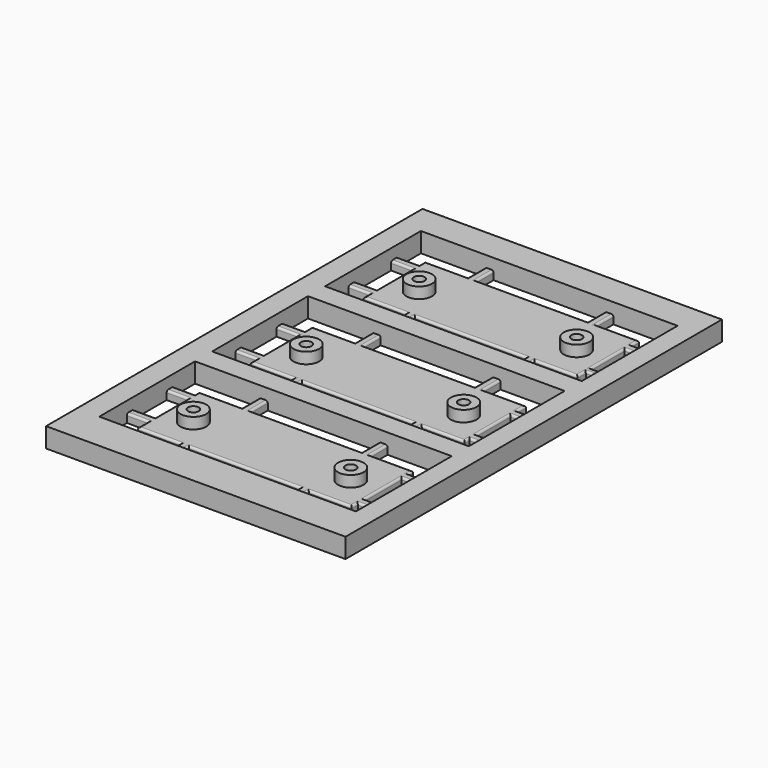
from build123d import *

# Parameters (mm, degrees)
F0_R     = 3
F0_W     = 2
F0_H     = 5
F0_W_2   = 5
F0_H_2   = 2
F0_H_3   = 2.0107477903
F0_H_4   = 1.5826318413
F1_DEPTH = 2
F0_H_5   = 1.9926615059
F2_W     = 70
F2_H     = 110
F2_W_2   = 60
F2_H_2   = 28
F3_DEPTH = 4.6
F0_R_2   = 1.25
F4_DEPTH = 4.6
F5_R     = 0.5
F6_R     = 0.5
F7_R     = 0.5


with BuildPart() as f1:
    # F0 (on Top) → F1 (new body)
    with BuildSketch(Plane.XY):
        Polygon((-4.260212779, 31.3345443402), (-14.260212779, 31.3345443402), (-14.260212779, 29.606844902), (-14.260212779, 27.606844902), (-14.260212779, 22.3345443402), (-14.260212779, 20.3345443402), (-14.260212779, 17.1737267151), (-14.260212779, 15.1737267151), (-14.260212779, 13.3345443402), (-4.260212779, 13.3345443402), (-2.260212779, 13.3345443402), (8.7358048186, 13.3345443402), (10.7358048186, 13.3345443402), (23.739787221, 13.3345443402), (25.739787221, 13.3345443402), (35.739787221, 13.3345443402), (35.739787221, 15.7596264035), (35.739787221, 17.3422582448), (35.739787221, 20.3345443402), (35.739787221, 22.3345443402), (35.739787221, 27.1184686571), (35.739787221, 29.1292164475), (35.739787221, 31.3345443402), (25.739787221, 31.3345443402), (23.739787221, 31.3345443402), (10.739787221, 31.3345443402), (8.739787221, 31.3345443402), (-2.260212779, 31.3345443402), align=None)
        with Locations((-7.660212779, 21.3345443402)):
            Circle(F0_R, mode=Mode.SUBTRACT)
        with Locations((29.139787221, 21.3345443402)):
            Circle(F0_R, mode=Mode.SUBTRACT)
        with Locations((-3.260212779, 33.8345443402)):
            Rectangle(F0_W, F0_H)
        with Locations((-16.760212779, 28.606844902)):
            Rectangle(F0_W_2, F0_H_2)
        with Locations((24.739787221, 33.8345443402)):
            Rectangle(F0_W, F0_H)
        with Locations((-16.760212779, 16.1737267151)):
            Rectangle(F0_W_2, F0_H_2)
        with Locations((38.239787221, 28.1238425523)):
            Rectangle(F0_W_2, F0_H_3)
        with Locations((-3.260212779, 10.8345443402)):
            Rectangle(F0_W, F0_H)
        with Locations((38.239787221, 16.5509423241)):
            Rectangle(F0_W_2, F0_H_4)
        with Locations((24.739787221, 10.8345443402)):
            Rectangle(F0_W, F0_H)
    extrude(amount=F1_DEPTH)

    # F0 (on Top) → F4 (join)
    with BuildSketch(Plane.XY):
        with Locations((-7.660212779, 21.3345443402)):
            Circle(F0_R)
        with Locations((-7.660212779, 21.3345443402)):
            Circle(F0_R_2, mode=Mode.SUBTRACT)
        with Locations((29.139787221, 21.3345443402)):
            Circle(F0_R)
        with Locations((29.139787221, 21.3345443402)):
            Circle(F0_R_2, mode=Mode.SUBTRACT)
    extrude(amount=F4_DEPTH)

    # F5
    f5_edges = [f1.edges().sort_by_distance(p)[0] for p in [
        (-2.260213, 10.834544, 2),
        (10.739787, 13.334544, 2),
        (-4.260213, 10.834544, 2),
        (-9.260213, 13.334544, 2),
        (-14.260213, 14.254136, 2),
        (-16.760213, 15.173727, 2),
        (-16.760213, 17.173727, 2),
        (-14.260213, 22.390286, 2),
        (-16.760213, 27.606845, 2),
        (-16.760213, 29.606845, 2),
        (-9.260213, 31.334544, 2),
        (-14.260213, 30.470695, 2),
        (-4.260213, 33.834544, 2),
        (-2.260213, 33.834544, 2),
        (10.739787, 31.334544, 2),
        (23.739787, 33.834544, 2),
        (25.739787, 33.834544, 2),
        (30.739787, 31.334544, 2),
        (35.739787, 30.23188, 2),
        (38.239787, 29.129216, 2),
        (38.239787, 27.118469, 2),
        (35.739787, 22.230363, 2),
        (38.239787, 17.342258, 2),
        (38.239787, 15.759626, 2),
        (35.739787, 14.547085, 2),
        (30.739787, 13.334544, 2),
        (25.739787, 10.834544, 2),
        (23.739787, 10.834544, 2),
    ]]
    fillet(f5_edges, radius=F5_R)


with BuildPart() as f1b:
    # F0 (on Top) → F1, piece 2 (new body)
    with BuildSketch(Plane.XY):
        Polygon((-4.260212779, -1.6654556598), (-14.260212779, -1.6654556598), (-14.260212779, -3.8577791788), (-14.260212779, -5.8577791788), (-14.260212779, -10.6654556598), (-14.260212779, -12.6654556598), (-14.260212779, -15.8761590719), (-14.260212779, -17.8688205779), (-14.260212779, -19.6654556598), (-4.260212779, -19.6654556598), (-2.260212779, -19.6654556598), (8.7807420641, -19.6654556598), (10.7807420641, -19.6654556598), (23.739787221, -19.6654556598), (25.739787221, -19.6654556598), (35.739787221, -19.6654556598), (35.739787221, -18.1903596967), (35.739787221, -16.1903596967), (35.739787221, -12.6654556598), (35.739787221, -10.6654556598), (35.739787221, -6.2599289231), (35.739787221, -4.2599289231), (35.739787221, -1.6654556598), (25.739787221, -1.6654556598), (23.739787221, -1.6654556598), (10.739787221, -1.6654556598), (8.739787221, -1.6654556598), (-2.260212779, -1.6654556598), align=None)
        with Locations((-7.660212779, -11.6654556598)):
            Circle(F0_R, mode=Mode.SUBTRACT)
        with Locations((29.139787221, -11.6654556598)):
            Circle(F0_R, mode=Mode.SUBTRACT)
        with Locations((-3.260212779, 0.8345443402)):
            Rectangle(F0_W, F0_H)
        with Locations((-16.760212779, -4.8577791788)):
            Rectangle(F0_W_2, F0_H_2)
        with Locations((24.739787221, 0.8345443402)):
            Rectangle(F0_W, F0_H)
        with Locations((-16.760212779, -16.8724898249)):
            Rectangle(F0_W_2, F0_H_5)
        with Locations((38.239787221, -5.2599289231)):
            Rectangle(F0_W_2, F0_H_2)
        with Locations((-3.260212779, -22.1654556598)):
            Rectangle(F0_W, F0_H)
        with Locations((38.239787221, -17.1903596967)):
            Rectangle(F0_W_2, F0_H_2)
        with Locations((24.739787221, -22.1654556598)):
            Rectangle(F0_W, F0_H)
    extrude(amount=F1_DEPTH)

    # F6
    f6_edges = [f1b.edges().sort_by_distance(p)[0] for p in [
        (10.739787, -1.665456, 2),
        (-2.260213, 0.834544, 2),
        (-4.260213, 0.834544, 2),
        (-9.260213, -1.665456, 2),
        (-14.260213, -2.761617, 2),
        (-16.760213, -3.857779, 2),
        (-16.760213, -5.857779, 2),
        (-14.260213, -10.866969, 2),
        (-16.760213, -15.876159, 2),
        (-16.760213, -17.868821, 2),
        (-14.260213, -18.767138, 2),
        (-9.260213, -19.665456, 2),
        (-4.260213, -22.165456, 2),
        (-2.260213, -22.165456, 2),
        (10.739787, -19.665456, 2),
        (23.739787, -22.165456, 2),
        (25.739787, -22.165456, 2),
        (30.739787, -19.665456, 2),
        (23.739787, 0.834544, 2),
        (25.739787, 0.834544, 2),
        (30.739787, -1.665456, 2),
        (38.239787, -4.259929, 2),
        (35.739787, -11.225144, 2),
        (35.739787, -2.962692, 2),
        (38.239787, -6.259929, 2),
        (38.239787, -16.19036, 2),
        (38.239787, -18.19036, 2),
        (35.739787, -18.927908, 2),
    ]]
    fillet(f6_edges, radius=F6_R)


with BuildPart() as f1c:
    # F0 (on Top) → F1, piece 3 (new body)
    with BuildSketch(Plane.XY):
        Polygon((-4.260212779, -34.6654556598), (-14.260212779, -34.6654556598), (-14.260212779, -35.9602573812), (-14.260212779, -37.9602573812), (-14.260212779, -41.6654556598), (-14.260212779, -43.6654556598), (-14.260212779, -47.5723225176), (-14.260212779, -49.5723225176), (-14.260212779, -52.6654556598), (-4.260212779, -52.6654556598), (-2.260212779, -52.6654556598), (8.3012469113, -52.6654556598), (10.3012469113, -52.6654556598), (23.739787221, -52.6654556598), (25.739787221, -52.6654556598), (35.739787221, -52.6654556598), (35.739787221, -50.8625470102), (35.739787221, -48.8625470102), (35.739787221, -45.6654556598), (35.739787221, -43.6654556598), (35.739787221, -38.0775518715), (35.739787221, -36.0775518715), (35.739787221, -34.6654556598), (25.739787221, -34.6654556598), (23.739787221, -34.6654556598), (10.7358048186, -34.6654556598), (8.7358048186, -34.6654556598), (-2.260212779, -34.6654556598), align=None)
        with Locations((-7.660212779, -44.6654556598)):
            Circle(F0_R, mode=Mode.SUBTRACT)
        with Locations((29.139787221, -44.6654556598)):
            Circle(F0_R, mode=Mode.SUBTRACT)
        with Locations((-3.260212779, -32.1654556598)):
            Rectangle(F0_W, F0_H)
        with Locations((-16.760212779, -36.9602573812)):
            Rectangle(F0_W_2, F0_H_2)
        with Locations((24.739787221, -32.1654556598)):
            Rectangle(F0_W, F0_H)
        with Locations((-16.760212779, -48.5723225176)):
            Rectangle(F0_W_2, F0_H_2)
        with Locations((38.239787221, -37.0775518715)):
            Rectangle(F0_W_2, F0_H_2)
        with Locations((-3.260212779, -55.1654556598)):
            Rectangle(F0_W, F0_H)
        with Locations((38.239787221, -49.8625470102)):
            Rectangle(F0_W_2, F0_H_2)
        with Locations((24.739787221, -55.1654556598)):
            Rectangle(F0_W, F0_H)
    extrude(amount=F1_DEPTH)

    # F7
    f7_edges = [f1c.edges().sort_by_distance(p)[0] for p in [
        (10.739787, -34.665456, 2),
        (-2.260213, -32.165456, 2),
        (-4.260213, -32.165456, 2),
        (-9.260213, -34.665456, 2),
        (-16.760213, -35.960257, 2),
        (-14.260213, -35.312857, 2),
        (-16.760213, -37.960257, 2),
        (-14.260213, -42.76629, 2),
        (-16.760213, -47.572323, 2),
        (-16.760213, -49.572323, 2),
        (-14.260213, -51.118889, 2),
        (-9.260213, -52.665456, 2),
        (-4.260213, -55.165456, 2),
        (-2.260213, -55.165456, 2),
        (10.739787, -52.665456, 2),
        (23.739787, -55.165456, 2),
        (25.739787, -55.165456, 2),
        (30.739787, -52.665456, 2),
        (35.739787, -51.764001, 2),
        (38.239787, -50.862547, 2),
        (38.239787, -48.862547, 2),
        (35.739787, -43.470049, 2),
        (38.239787, -38.077552, 2),
        (38.239787, -36.077552, 2),
        (35.739787, -35.371504, 2),
        (30.739787, -34.665456, 2),
        (25.739787, -32.165456, 2),
        (23.739787, -32.165456, 2),
    ]]
    fillet(f7_edges, radius=F7_R)


with BuildPart() as f3:
    # F2 (on Top) → F3 (new body)
    with BuildSketch(Plane.XY):
        with Locations((10.5093383789, -11.6654556598)):
            Rectangle(F2_W, F2_H)
        with Locations((10.739787221, -43.6654556598)):
            Rectangle(F2_W_2, F2_H_2, mode=Mode.SUBTRACT)
        with Locations((10.739787221, -10.6654556598)):
            Rectangle(F2_W_2, F2_H_2, mode=Mode.SUBTRACT)
        with Locations((10.739787221, 22.3345443402)):
            Rectangle(F2_W_2, F2_H_2, mode=Mode.SUBTRACT)
    extrude(amount=F3_DEPTH)


with BuildPart() as f4:
    # F0 (on Top) → F4, piece 2 (new body)
    with BuildSketch(Plane.XY):
        with Locations((-7.660212779, -11.6654556598)):
            Circle(F0_R)
        with Locations((-7.660212779, -11.6654556598)):
            Circle(F0_R_2, mode=Mode.SUBTRACT)
        with Locations((29.139787221, -11.6654556598)):
            Circle(F0_R)
        with Locations((29.139787221, -11.6654556598)):
            Circle(F0_R_2, mode=Mode.SUBTRACT)
    extrude(amount=F4_DEPTH)


with BuildPart() as f4b:
    # F0 (on Top) → F4, piece 3 (new body)
    with BuildSketch(Plane.XY):
        with Locations((-7.660212779, -44.6654556598)):
            Circle(F0_R)
        with Locations((-7.660212779, -44.6654556598)):
            Circle(F0_R_2, mode=Mode.SUBTRACT)
        with Locations((29.139787221, -44.6654556598)):
            Circle(F0_R)
        with Locations((29.139787221, -44.6654556598)):
            Circle(F0_R_2, mode=Mode.SUBTRACT)
    extrude(amount=F4_DEPTH)


solid = Compound([f1.part, f1b.part, f1c.part, f3.part, f4.part, f4b.part])
